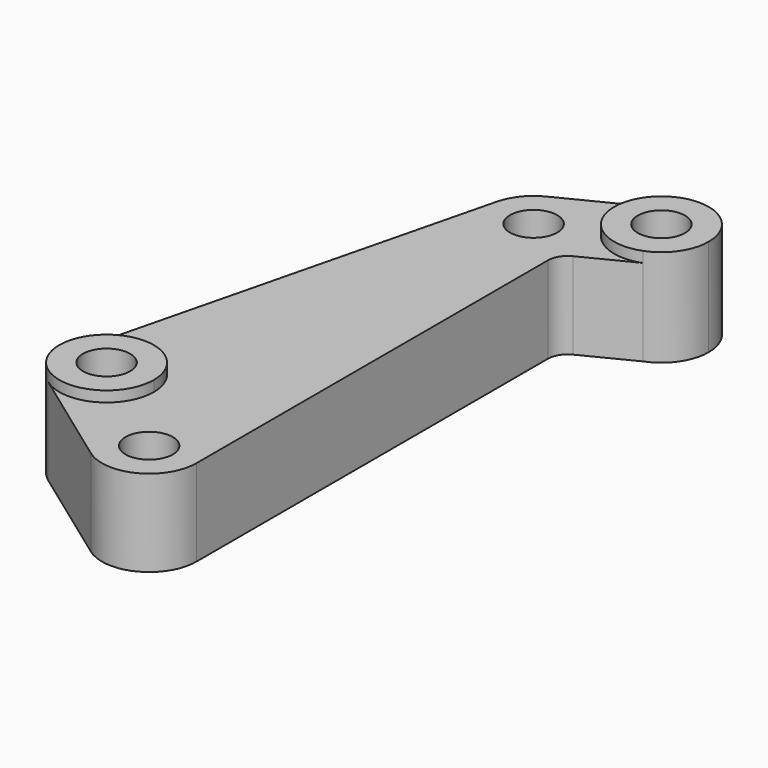
from build123d import *

# Parameters (mm, degrees)
F0_R     = 6
F1_DEPTH = 22
F2_DEPTH = 24.7


with BuildPart() as f1:
    # F0 (on Top) → F1 (new body)
    with BuildSketch(Plane.XY):
        with BuildLine():
            ThreePointArc((-39.729459, 71.719923), (-43.712267, 68.489746), (-45.982916, 63.891817))
            ThreePointArc((-45.982916, 63.891817), (-35.79325, 49.088741), (-22.336569, 61))
            ThreePointArc((-22.336569, 61), (-28.040327, 71.215544), (-39.729459, 71.719923))
        make_face()
        with Locations((-34.336569, 61)):
            Circle(F0_R, mode=Mode.SUBTRACT)
        with BuildLine():
            ThreePointArc((-41.368618, -70.723698), (-28.876926, -71.686079), (-22.336569, -61))
            ThreePointArc((-22.336569, -61), (-39.796213, -50.313921), (-41.368618, -70.723698))
        make_face()
        with Locations((-34.336569, -61)):
            Circle(F0_R, mode=Mode.SUBTRACT)
        with BuildLine():
            ThreePointArc((-41.368618, -70.723698), (-39.796213, -50.313921), (-22.336569, -61))
            Line((-22.336569, -61), (-22.336569, 50.549211))
            ThreePointArc((-22.336569, 50.549211), (-21.596063, 53.167744), (-19.593883, 55.010661))
            Line((-19.593883, 55.010661), (-6.868949, 61.448964))
            ThreePointArc((-6.868949, 61.448964), (-22.163233, 67.778229), (-16.586291, 83.362594))
            Line((-16.586291, 83.362594), (-39.729459, 71.719923))
            ThreePointArc((-39.729459, 71.719923), (-28.040327, 71.215544), (-22.336569, 61))
            ThreePointArc((-22.336569, 61), (-35.79325, 49.088741), (-45.982916, 63.891817))
            Line((-45.982916, 63.891817), (-71.664248, -39.535787))
            ThreePointArc((-71.664248, -39.535787), (-58.56122, -30.516345), (-48.017901, -42.427604))
            ThreePointArc((-48.017901, -42.427604), (-54.558257, -53.113683), (-67.049949, -52.151301))
            Line((-67.049949, -52.151301), (-41.368618, -70.723698))
        make_face()
    extrude(amount=F1_DEPTH)

    # F0 (on Top) → F2 (join)
    with BuildSketch(Plane.XY):
        with BuildLine():
            ThreePointArc((-71.664248, -39.535787), (-71.287702, -46.549689), (-67.049949, -52.151301))
            ThreePointArc((-67.049949, -52.151301), (-54.558257, -53.113683), (-48.017901, -42.427604))
            ThreePointArc((-48.017901, -42.427604), (-58.56122, -30.516345), (-71.664248, -39.535787))
        make_face()
        with Locations((-60.017901, -42.427604)):
            Circle(F0_R, mode=Mode.SUBTRACT)
        with BuildLine():
            ThreePointArc((-16.586291, 83.362594), (-22.163233, 67.778229), (-6.868949, 61.448964))
            ThreePointArc((-6.868949, 61.448964), (-1.296598, 65.856415), (0.806598, 72.642672))
            ThreePointArc((0.806598, 72.642672), (-4.89716, 82.858216), (-16.586291, 83.362594))
        make_face()
        with Locations((-11.193402, 72.642672)):
            Circle(F0_R, mode=Mode.SUBTRACT)
    extrude(amount=F2_DEPTH)


solid = f1.part
